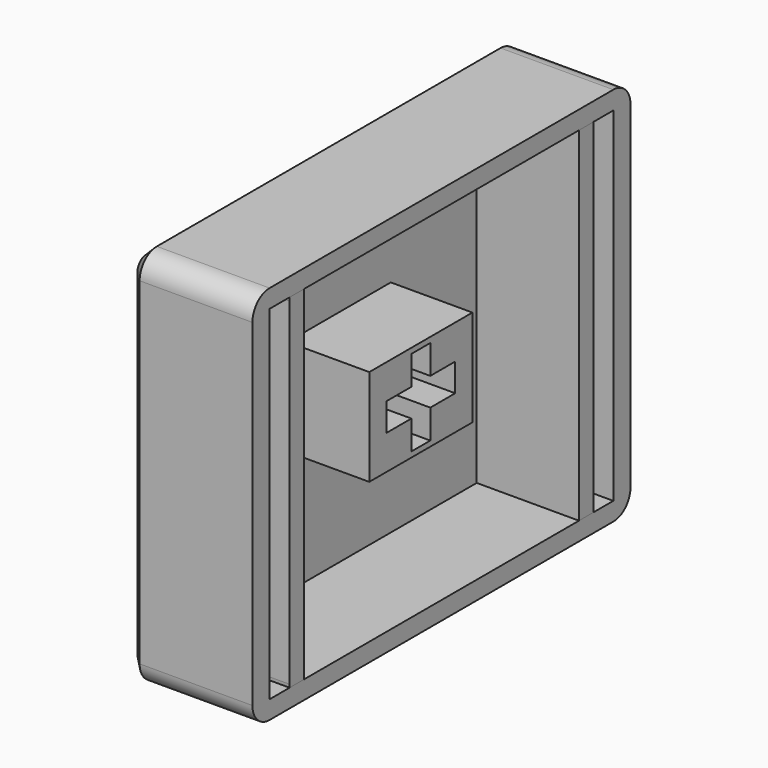
from build123d import *

# Parameters (mm, degrees)
PAD_DEPTH       = 5.75
SKETCH001_W     = 16
SKETCH001_H     = 16
POCKET_DEPTH    = 4.76
CHAMFER_SIZE    = 0.5
SKETCH002_W     = 6
SKETCH002_H     = 4.5
PAD001_DEPTH    = 3.8
POCKET001_DEPTH = 4
PAD002_DEPTH    = 5.75
SKETCH005_W     = 20
SKETCH005_H     = 16
POCKET002_DEPTH = 4.76
CHAMFER001_SIZE = 0.5
SKETCH006_W     = 6
SKETCH006_H     = 4.5
PAD003_DEPTH    = 3.8
POCKET003_DEPTH = 4


with BuildPart() as f_1_u:
    # Sketch → Pad (new body)
    with BuildSketch(Plane.YZ):
        with BuildLine():
            Line((-7.85, 8.85), (7.85, 8.85))
            ThreePointArc((8.85, 7.85), (8.557107, 8.557107), (7.85, 8.85))
            Line((8.85, 7.85), (8.85, -7.85))
            ThreePointArc((7.85, -8.85), (8.557107, -8.557107), (8.85, -7.85))
            Line((7.85, -8.85), (-7.85, -8.85))
            ThreePointArc((-8.85, -7.85), (-8.557107, -8.557107), (-7.85, -8.85))
            Line((-8.85, -7.85), (-8.85, 7.85))
            ThreePointArc((-7.85, 8.85), (-8.557107, 8.557107), (-8.85, 7.85))
        make_face()
    extrude(amount=PAD_DEPTH)

    # Sketch001 (on Face10 of Pad) → Pocket (cut)
    with BuildSketch(Plane.YZ.offset(5.75)):
        Rectangle(SKETCH001_W, SKETCH001_H)
    extrude(amount=-POCKET_DEPTH, mode=Mode.SUBTRACT)

    # Chamfer
    chamfer_edges = [f_1_u.edges().sort_by_distance(p)[0] for p in [
        (0, -8.85, 0),
        (0, -8.557107, 8.557107),
        (0, 0, 8.85),
        (0, 8.557107, 8.557107),
        (0, 8.85, 0),
        (0, 8.557107, -8.557107),
        (0, 0, -8.85),
        (0, -8.557107, -8.557107),
    ]]
    chamfer(chamfer_edges, length=CHAMFER_SIZE)

    # Sketch002 (on Face23 of Chamfer) → Pad001 (join)
    with BuildSketch(Plane.YZ.offset(0.99)):
        Rectangle(SKETCH002_W, SKETCH002_H)
    extrude(amount=PAD001_DEPTH)

    # Sketch003 (on Face28 of Pad001) → Pocket001 (cut)
    with BuildSketch(Plane.YZ.offset(4.79)):
        Polygon((-0.55, 2), (0.55, 2), (0.55, 0.65), (2, 0.65), (2, -0.65), (0.55, -0.65), (0.55, -2), (-0.55, -2), (-0.55, -0.65), (-2, -0.65), (-2, 0.65), (-0.55, 0.65), align=None)
    extrude(amount=-POCKET001_DEPTH, mode=Mode.SUBTRACT)


with BuildPart() as f_1_5_u:
    # Sketch004 → Pad002 (new body)
    with BuildSketch(Plane.YZ):
        with BuildLine():
            Line((-10, 8.85), (10, 8.85))
            ThreePointArc((11, 7.85), (10.707107, 8.557107), (10, 8.85))
            Line((11, 7.85), (11, -7.85))
            ThreePointArc((10, -8.85), (10.707107, -8.557107), (11, -7.85))
            Line((10, -8.85), (-10, -8.85))
            ThreePointArc((-11, -7.85), (-10.707107, -8.557107), (-10, -8.85))
            Line((-11, -7.85), (-11, 7.85))
            ThreePointArc((-10, 8.85), (-10.707107, 8.557107), (-11, 7.85))
        make_face()
    extrude(amount=PAD002_DEPTH)

    # Sketch005 (on Face10 of Pad002) → Pocket002 (cut)
    with BuildSketch(Plane.YZ.offset(5.75)):
        Rectangle(SKETCH005_W, SKETCH005_H)
    extrude(amount=-POCKET002_DEPTH, mode=Mode.SUBTRACT)

    # Chamfer001
    chamfer001_edges = [f_1_5_u.edges().sort_by_distance(p)[0] for p in [
        (0, -11, 0),
        (0, -10.707107, 8.557107),
        (0, 0, 8.85),
        (0, 10.707107, 8.557107),
        (0, 11, 0),
        (0, 10.707107, -8.557107),
        (0, 0, -8.85),
        (0, -10.707107, -8.557107),
    ]]
    chamfer(chamfer001_edges, length=CHAMFER001_SIZE)

    # Sketch006 (on Face23 of Chamfer001) → Pad003 (join)
    with BuildSketch(Plane.YZ.offset(0.99)):
        Rectangle(SKETCH006_W, SKETCH006_H)
    extrude(amount=PAD003_DEPTH)

    # Sketch007 (on Face28 of Pad003) → Pocket003 (cut)
    with BuildSketch(Plane.YZ.offset(4.79)):
        Polygon((-0.55, 2), (0.55, 2), (0.55, 0.65), (2, 0.65), (2, -0.65), (0.55, -0.65), (0.55, -2), (-0.55, -2), (-0.55, -0.65), (-2, -0.65), (-2, 0.65), (-0.55, 0.65), align=None)
    extrude(amount=-POCKET003_DEPTH, mode=Mode.SUBTRACT)


solid = Compound([f_1_u.part, f_1_5_u.part])
